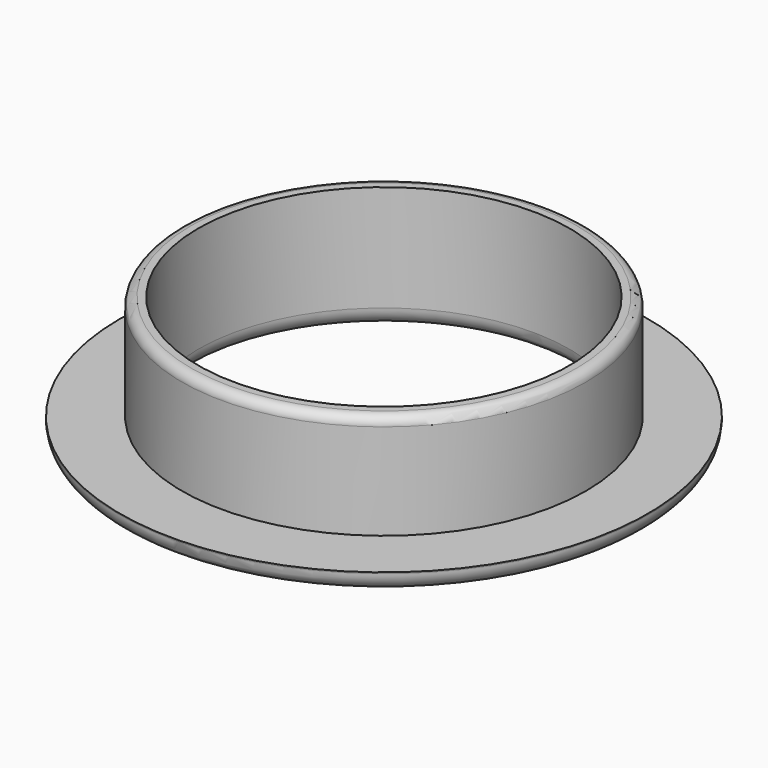
from build123d import *

# Parameters (mm, degrees)
SKETCH002_R  = 30.035231
POCKET_DEPTH = 24
FILLET_R     = 3
FILLET001_R  = 3
FILLET002_R  = 1.5


with BuildPart() as part:
    # Sketch001 → Revolution (revolve)
    with BuildSketch(Plane.XZ):
        Polygon((-42.7, 0), (-42.7, 3.2), (-32.7, 3.2), (-32.7, 20.2), (0, 20.2), (0, 0), align=None)
    revolve(axis=Axis((0, 0, 0), (0, 0, 1)))

    # Sketch002 (on Face4 of Revolution) → Pocket (cut)
    with BuildSketch(Plane(origin=(0, 0, 20.2), x_dir=(-1, 0, 0), z_dir=(0, 0, 1))):
        Circle(SKETCH002_R)
    extrude(amount=-POCKET_DEPTH, mode=Mode.SUBTRACT)

    # Fillet
    fillet_edges = [part.edges().sort_by_distance(p)[0] for p in [
        (30.035231, 0, 0),
    ]]
    fillet(fillet_edges, radius=FILLET_R)

    # Fillet001
    fillet001_edges = [part.edges().sort_by_distance(p)[0] for p in [
        (42.7, 0, 0),
    ]]
    fillet(fillet001_edges, radius=FILLET001_R)

    # Fillet002
    fillet002_edges = [part.edges().sort_by_distance(p)[0] for p in [
        (32.7, 0, 20.2),
    ]]
    fillet(fillet002_edges, radius=FILLET002_R)


solid = part.part
